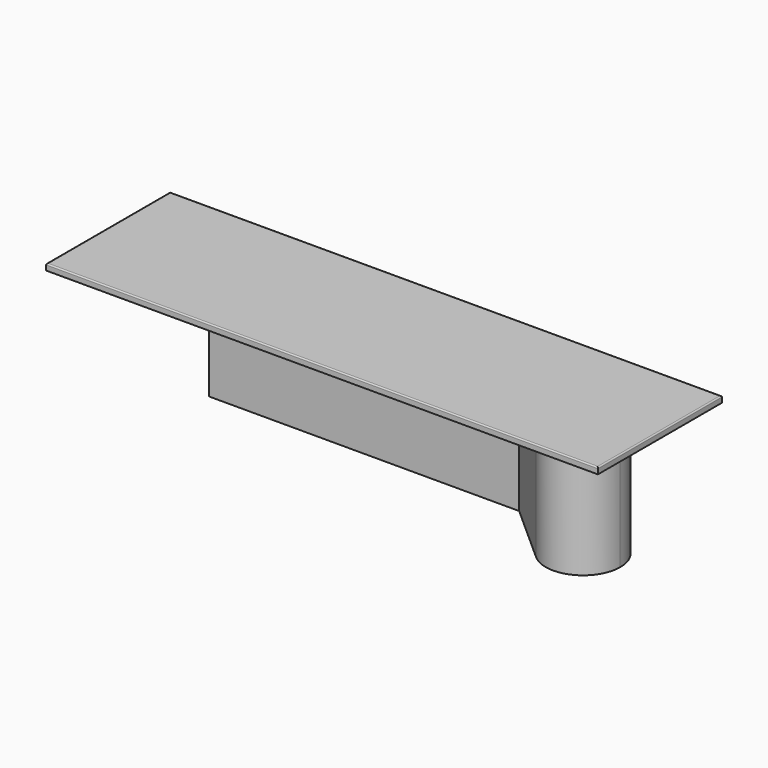
from build123d import *

# Parameters (mm, degrees)
F0_W     = 2260.6
F0_H     = 635
F1_DEPTH = 25.4
F2_R     = 5.08
F3_W     = 1270
F3_H     = 228.6
F4_DEPTH = 508


with BuildPart() as f1:
    # F0 (on Top) → F1 (new body)
    with BuildSketch(Plane.XY):
        with Locations((1130.3, 317.5)):
            Rectangle(F0_W, F0_H)
    extrude(amount=F1_DEPTH)

    # F2
    f2_edges = [f1.edges().sort_by_distance(p)[0] for p in [
        (0, 317.5, 25.4),
        (1130.3, 0, 25.4),
        (2260.6, 317.5, 25.4),
        (1130.3, 635, 25.4),
    ]]
    fillet(f2_edges, radius=F2_R)

    # F3 (on face) → F4 (join)
    with BuildSketch(Plane(origin=(0, 0, 0), x_dir=(1, 0, 0), z_dir=(0, 0, -1))):
        with Locations((977.9, -520.7)):
            Rectangle(F3_W, F3_H)
        with BuildLine():
            Line((1612.9, -406.4), (1612.9, -635))
            Line((1612.9, -635), (2012.596362, -446.22112))
            ThreePointArc((2012.596362, -446.22112), (1827.078225, -386.38716), (1852.147463, -193.077524))
            Line((1852.147463, -193.077524), (1612.9, -406.4))
        make_face()
        with BuildLine():
            Line((2028.944765, -438.499676), (2012.596362, -446.22112))
            ThreePointArc((2012.596362, -446.22112), (2020.88517, -442.60305), (2028.944765, -438.499676))
        make_face()
        with BuildLine():
            ThreePointArc((1852.147463, -193.077524), (1827.078225, -386.38716), (2012.596362, -446.22112))
            Line((2012.596362, -446.22112), (2028.944765, -438.499676))
            ThreePointArc((2028.944765, -438.499676), (2086.897334, -382.512605), (2108.2, -304.8))
            ThreePointArc((2108.2, -304.8), (2019.496552, -166.349614), (1856.64476, -189.067557))
            Line((1856.64476, -189.067557), (1852.147463, -193.077524))
        make_face()
        with BuildLine():
            ThreePointArc((1856.64476, -189.067557), (1854.376292, -191.050313), (1852.147463, -193.077524))
            Line((1852.147463, -193.077524), (1856.64476, -189.067557))
        make_face()
    extrude(amount=F4_DEPTH)


solid = f1.part
